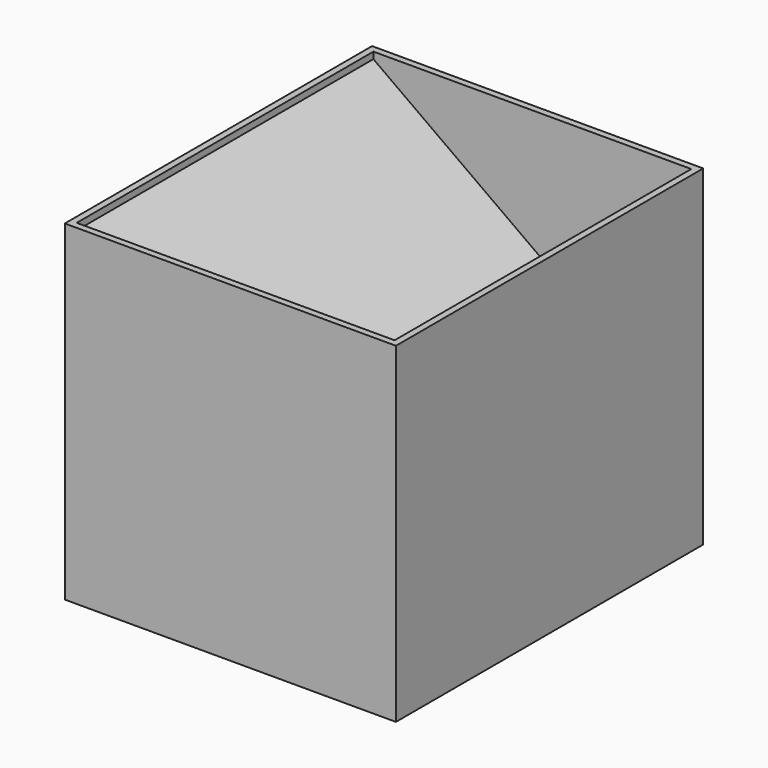
from build123d import *

# Parameters (mm, degrees)
SKETCH_W     = 250
SKETCH_H     = 290
PAD_DEPTH    = 250
SKETCH002_W  = 240
SKETCH002_H  = 280
POCKET_DEPTH = 240
PAD001_DEPTH = 290


with BuildPart() as part:
    # Sketch → Pad (new body)
    with BuildSketch(Plane.XY):
        Rectangle(SKETCH_W, SKETCH_H)
    extrude(amount=PAD_DEPTH)

    # Sketch002 (on Face6 of Pad) → Pocket (cut)
    with BuildSketch(Plane.XY.offset(250)):
        Rectangle(SKETCH002_W, SKETCH002_H)
    extrude(amount=-POCKET_DEPTH, mode=Mode.SUBTRACT)

    # Sketch003 (on Face1 of Pocket) → Pad001 (join)
    with BuildSketch(Plane.XZ.offset(145)):
        Polygon((-120, 245), (-120, 5), (120, 5), (120, 72.606014), align=None)
    extrude(amount=-PAD001_DEPTH)


solid = part.part
